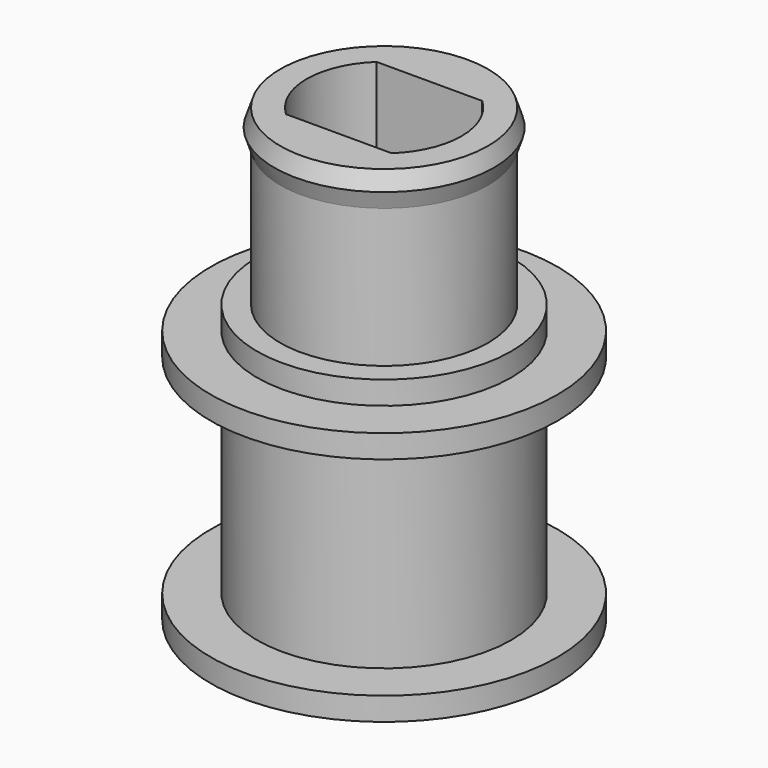
from build123d import *

# Parameters (mm, degrees)
F0_R     = 7.5
F0_R_2   = 5.5
F0_R_3   = 4.5
F1_DEPTH = 1
F3_DEPTH = 12
F4_DEPTH = 19.5


with BuildPart() as f1:
    # F0 (on Top) → F1 (new body)
    with BuildSketch(Plane.XY):
        Circle(F0_R)
        Circle(F0_R_2, mode=Mode.SUBTRACT)
        Circle(F0_R)
        Circle(F0_R_2, mode=Mode.SUBTRACT)
        Circle(F0_R_2)
        Circle(F0_R_3, mode=Mode.SUBTRACT)
        Circle(F0_R_3)
        with BuildLine():
            ThreePointArc((-2.284732, -2.45), (-3.35, 0), (-2.284732, 2.45))
            Line((-2.284732, 2.45), (2.284732, 2.45))
            ThreePointArc((2.284732, 2.45), (3.35, 0), (2.284732, -2.45))
            Line((2.284732, -2.45), (-2.284732, -2.45))
        make_face(mode=Mode.SUBTRACT)
    extrude(amount=F1_DEPTH)



with BuildPart() as f2_1:
    # F2: copy of F1
    add(f1.part.moved(Location((0, 0, 10))))


with BuildPart() as f3:
    # F0 (on Top) → F3 (new body)
    with BuildSketch(Plane.XY):
        Circle(F0_R_2)
        Circle(F0_R_3, mode=Mode.SUBTRACT)
        Circle(F0_R_3)
        with BuildLine():
            ThreePointArc((-2.284732, -2.45), (-3.35, 0), (-2.284732, 2.45))
            Line((-2.284732, 2.45), (2.284732, 2.45))
            ThreePointArc((2.284732, 2.45), (3.35, 0), (2.284732, -2.45))
            Line((2.284732, -2.45), (-2.284732, -2.45))
        make_face(mode=Mode.SUBTRACT)
    extrude(amount=F3_DEPTH)


with BuildPart() as f1_1:
    add(f1.part)

    add(f2_1.part)  # F4 merges F2_1

    add(f3.part)  # F4 merges F3
    # F0 (on Top) → F4 (join)
    with BuildSketch(Plane.XY):
        Circle(F0_R_3)
        with BuildLine():
            ThreePointArc((-2.284732, -2.45), (-3.35, 0), (-2.284732, 2.45))
            Line((-2.284732, 2.45), (2.284732, 2.45))
            ThreePointArc((2.284732, 2.45), (3.35, 0), (2.284732, -2.45))
            Line((2.284732, -2.45), (-2.284732, -2.45))
        make_face(mode=Mode.SUBTRACT)
    extrude(amount=F4_DEPTH)

    # F5 (on Front) → F6 (revolve)
    with BuildSketch(Plane.XZ):
        Polygon((4.75, 18.75), (4.5, 19.5), (4.5, 18), align=None)
    revolve(axis=Axis((0, 0, 8.754228), (0, 0, 1)))


solid = f1_1.part
